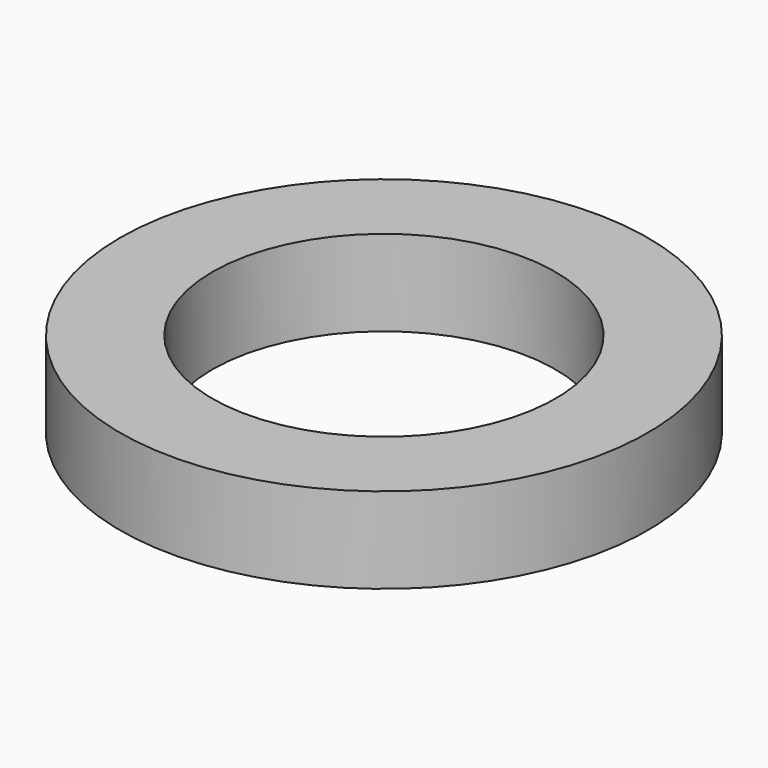
from build123d import *

# Parameters (mm, degrees)
F0_W = 3.175
F0_H = 20.6502
F2_W = 22.225
F2_H = 20.6502


with BuildPart() as f1:
    # F0 (on Front) → F1 (revolve)
    with BuildSketch(Plane.XZ):
        with Locations((-1.5875, 10.3251)):
            Rectangle(F0_W, F0_H)
    revolve(axis=Axis((44.040905, 0, 19.471461), (0, 0, 1)))

    # F2 (on Front) → F3 (revolve)
    with BuildSketch(Plane.XZ):
        with Locations((-11.1125, 10.3251)):
            Rectangle(F2_W, F2_H)
    revolve(axis=Axis((41.275, 0, 14.79831), (0, 0, 1)))


solid = f1.part
